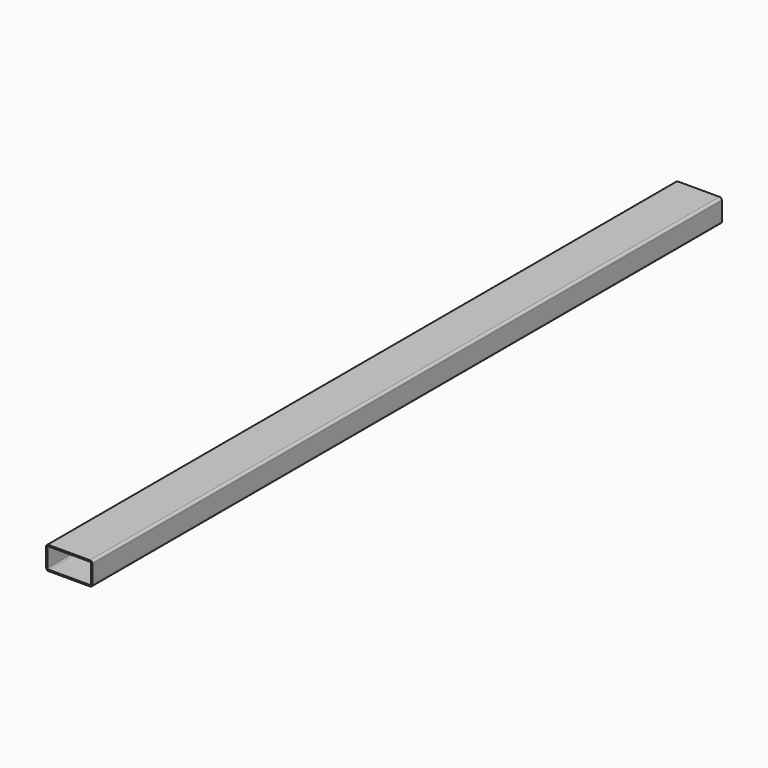
from build123d import *

# Parameters (mm, degrees)
F1_DEPTH = 425


with BuildPart() as f1:
    # F0 (on Front) → F1 (new body, symmetric)
    with BuildSketch(Plane.XZ):
        with BuildLine():
            ThreePointArc((25, 10), (24.267766953, 11.767766953), (22.5, 12.5))
            Line((22.5, 12.5), (-22.5, 12.5))
            ThreePointArc((-22.5, 12.5), (-24.267766953, 11.767766953), (-25, 10))
            Line((-25, 10), (-25, -10))
            ThreePointArc((-25, -10), (-24.267766953, -11.767766953), (-22.5, -12.5))
            Line((-22.5, -12.5), (22.5, -12.5))
            ThreePointArc((22.5, -12.5), (24.267766953, -11.767766953), (25, -10))
            Line((25, -10), (25, 10))
        make_face()
        with BuildLine():
            ThreePointArc((22.5, 11), (23.2071067812, 10.7071067812), (23.5, 10))
            Line((23.5, 10), (23.5, -10))
            ThreePointArc((23.5, -10), (23.2071067812, -10.7071067812), (22.5, -11))
            Line((22.5, -11), (-22.5, -11))
            ThreePointArc((-22.5, -11), (-23.2071067812, -10.7071067812), (-23.5, -10))
            Line((-23.5, -10), (-23.5, 10))
            ThreePointArc((-23.5, 10), (-23.2071067812, 10.7071067812), (-22.5, 11))
            Line((-22.5, 11), (22.5, 11))
        make_face(mode=Mode.SUBTRACT)
    extrude(amount=F1_DEPTH, both=True)


solid = f1.part
